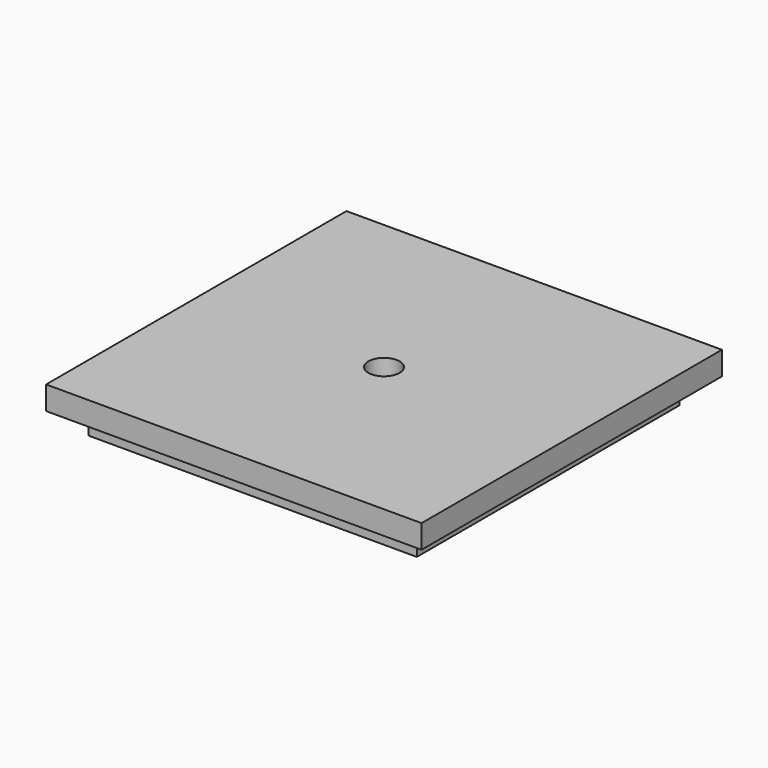
from build123d import *

# Parameters (mm, degrees)
F0_W     = 152.4
F0_H     = 152.4
F1_DEPTH = 9.525
F2_W     = 133.35
F2_H     = 133.35
F3_DEPTH = 9.525
F5_D     = 12.7


with BuildPart() as f1:
    # F0 (on Top) → F1 (new body)
    with BuildSketch(Plane.XY):
        Rectangle(F0_W, F0_H)
    extrude(amount=F1_DEPTH)

    # F2 (on face) → F3 (join)
    with BuildSketch(Plane(origin=(0, 0, 0), x_dir=(1, 0, 0), z_dir=(0, 0, -1))):
        Rectangle(F2_W, F2_H)
    extrude(amount=F3_DEPTH)

    # F5 (through all)
    with Locations(Plane.XY.offset(9.525)):
        with Locations((0, 0)):
            Hole(F5_D / 2)


solid = f1.part
